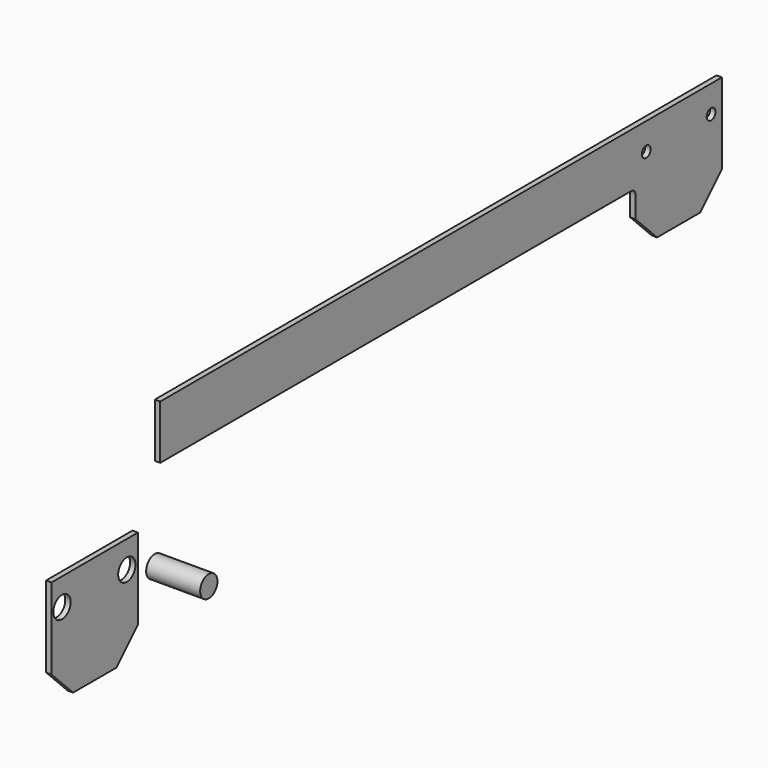
from build123d import *

# Parameters (mm, degrees)
F0_R     = 2.579688
F1_DEPTH = 2.54
F0_R_2   = 5.08
F2_DEPTH = 2.54
F3_DEPTH = 25.4


with BuildPart() as f1:
    # F0 (on Right) → F1 (new body)
    with BuildSketch(Plane.YZ):
        with BuildLine():
            Line((0, 25.4), (0, 0))
            Line((0, 0), (276.86, 0))
            ThreePointArc((276.86, 0), (278.656051, -0.743949), (279.4, -2.54))
            Line((279.4, -2.54), (279.4, -12.7))
            Line((279.4, -12.7), (292.1, -25.4))
            Line((292.1, -25.4), (317.5, -25.4))
            Line((317.5, -25.4), (330.2, -12.7))
            Line((330.2, -12.7), (330.2, 25.4))
            Line((330.2, 25.4), (0, 25.4))
        make_face()
        with Locations((285.75, 12.7)):
            Circle(F0_R, mode=Mode.SUBTRACT)
        with Locations((323.85, 12.7)):
            Circle(F0_R, mode=Mode.SUBTRACT)
    extrude(amount=F1_DEPTH)


with BuildPart() as f2:
    # F0 (on Right) → F2 (new body)
    with BuildSketch(Plane.YZ):
        Polygon((-13.104939, -23.503161), (-63.904939, -23.503161), (-63.904939, -61.603161), (-51.204939, -74.303161), (-25.804939, -74.303161), (-13.104939, -61.603161), align=None)
        with Locations((-57.716157, -36.203161)):
            Circle(F0_R_2, mode=Mode.SUBTRACT)
        with Locations((-19.616157, -36.203161)):
            Circle(F0_R_2, mode=Mode.SUBTRACT)
    extrude(amount=F2_DEPTH)


with BuildPart() as f3:
    # F0 (on Right) → F3 (new body)
    with BuildSketch(Plane.YZ):
        with Locations((0, -43.598418)):
            Circle(F0_R_2)
    extrude(amount=F3_DEPTH)


solid = Compound([f1.part, f2.part, f3.part])
